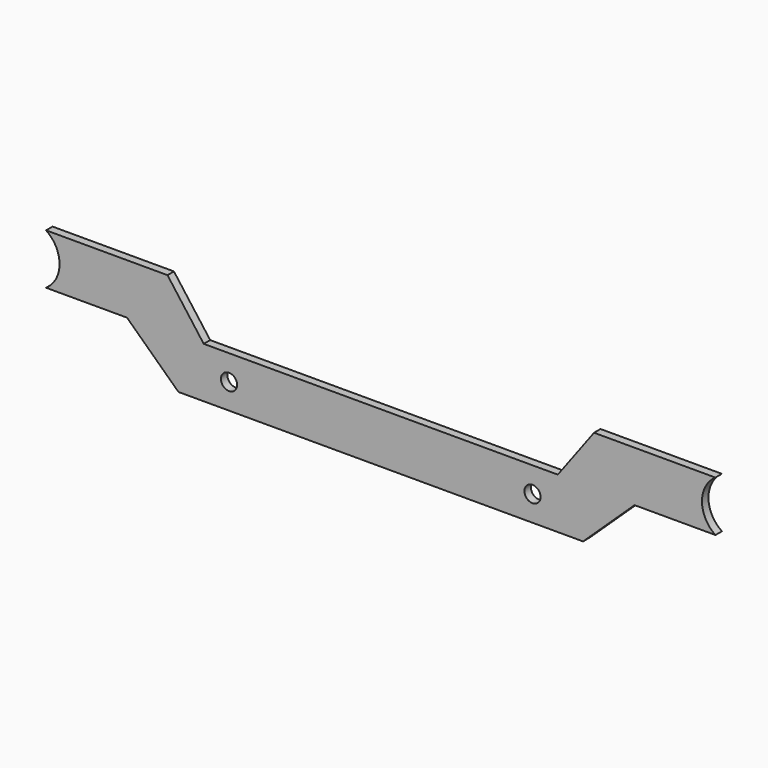
from build123d import *

# Parameters (mm, degrees)
F0_R     = 8
F1_DEPTH = 8


with BuildPart() as f1:
    # F0 (on Front) → F1 (new body)
    with BuildSketch(Plane.XZ):
        with BuildLine():
            Line((-251.024737, -8.732651), (-200.191404, -56.8572))
            Line((-200.191404, -56.8572), (199.808596, -56.8572))
            Line((199.808596, -56.8572), (250.641929, -8.732651))
            Line((250.641929, -8.732651), (330.641929, -8.732651))
            ThreePointArc((330.641929, -8.732651), (317.344897, 16.267349), (330.641929, 41.267349))
            Line((330.641929, 41.267349), (210.641929, 41.267349))
            Line((210.641929, 41.267349), (174.808596, -6.8572))
            Line((174.808596, -6.8572), (-175.191404, -6.8572))
            Line((-175.191404, -6.8572), (-211.024737, 41.267349))
            Line((-211.024737, 41.267349), (-331.024737, 41.267349))
            ThreePointArc((-331.024737, 41.267349), (-321.258731, 30.425484), (-317.727704, 16.267349))
            ThreePointArc((-317.727704, 16.267349), (-321.258731, 2.109215), (-331.024737, -8.732651))
            Line((-331.024737, -8.732651), (-251.024737, -8.732651))
        make_face()
        with Locations((-150.191404, -31.8572)):
            Circle(F0_R, mode=Mode.SUBTRACT)
        with Locations((149.808596, -31.8572)):
            Circle(F0_R, mode=Mode.SUBTRACT)
    extrude(amount=F1_DEPTH)


solid = f1.part
